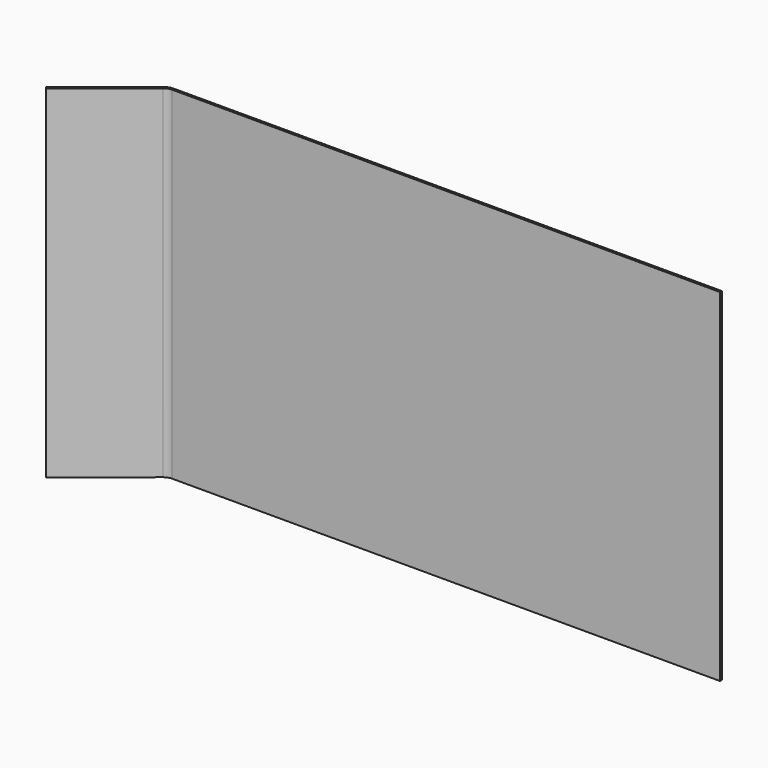
from build123d import *

# Parameters (mm, degrees)
F0_W     = 240
F0_H     = 150
F1_DEPTH = 1
F4_W     = 1
F4_H     = 150


with BuildPart() as f1:
    # F0 (on Front) → F1 (new body)
    with BuildSketch(Plane.XZ):
        with Locations((38.595604, 1.143629)):
            Rectangle(F0_W, F0_H)
    extrude(amount=F1_DEPTH)

    # F5: sweep along a path in F3
    with BuildLine(Plane(origin=(0, 0, -73.856371), x_dir=(1, 0, 0), z_dir=(0, 0, -1))) as f5_path:
        Line((-115.624746, 27.287086), (-84.538908, 2.11427))
        ThreePointArc((-84.538908, 2.11427), (-83.06134, 1.286793), (-81.392306, 1))
    # F4 (on face) → F5 (sweep)
    with BuildSketch(Plane(origin=(-81.404396, 0, 0), x_dir=(0, -1, 0), z_dir=(-1, 0, 0))):
        with Locations((0.5, 1.143629)):
            Rectangle(F4_W, F4_H)
    sweep(path=f5_path.line)


solid = f1.part
